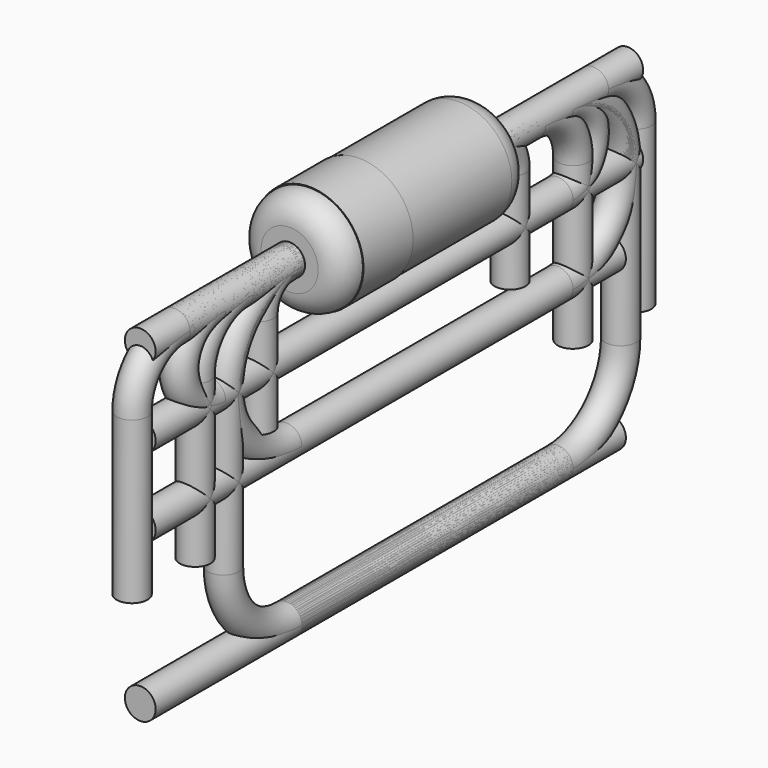
from build123d import *

# Parameters (mm, degrees)
SKETCH003_R             = 0.24825
SKETCH007_R             = 0.24825
SKETCH009_R             = 0.24825
SKETCH011_R             = 0.24825
BODY006_PLACEMENT_ANGLE = 180
SKETCH013_R             = 0.24825
BODY007_PLACEMENT_ANGLE = 180
SKETCH015_R             = 0.24825
SKETCH017_R             = 0.24825
SKETCH019_R             = 0.24825
BODY010_PLACEMENT_ANGLE = 180
SKETCH_R                = 0.86
PAD_DEPTH               = 1.9025
FILLET_R                = 0.4
SKETCH005_R             = 0.24825
SKETCH001_R             = 0.87
PAD001_DEPTH            = 0.5


with BuildPart() as body002:
    # AdditivePipe: sweep along a path in Sketch002
    with BuildLine(Plane.YZ) as additivepipe_path:
        Line((-3.81, -3.46), (-3.81, -0.86))
        ThreePointArc((-3.81, -0.86), (-3.558112, -0.251888), (-2.95, 0))
        Line((-2.95, 0), (2.95, 0))
        ThreePointArc((2.95, 0), (3.558112, -0.251888), (3.81, -0.86))
        Line((3.81, -0.86), (3.81, -3.46))
    # Sketch003 → AdditivePipe (sweep)
    with BuildSketch(Plane(origin=(0, 0, 0), x_dir=(0, 0, -1), z_dir=(0, -1, 0))):
        Circle(SKETCH003_R)
    sweep(path=additivepipe_path.line)


with BuildPart() as body004:
    # AdditivePipe002: sweep along a path in Sketch006
    with BuildLine(Plane.YZ) as additivepipe002_path:
        Line((4.5675, 0), (-1.9675, 0))
        ThreePointArc((-1.9675, 0), (-3.2375, -1.27), (-1.9675, -2.54))
        Line((-1.9675, -2.54), (4.5675, -2.54))
    # Sketch007 → AdditivePipe002 (sweep)
    with BuildSketch(Plane(origin=(0, 0, 0), x_dir=(0, 0, -1), z_dir=(0, -1, 0))):
        Circle(SKETCH007_R)
    sweep(path=additivepipe002_path.line)


with BuildPart() as body005:
    # AdditivePipe003: sweep along a path in Sketch008
    with BuildLine(Plane.YZ) as additivepipe003_path:
        Line((4.5675, 0), (-1.9675, 0))
        ThreePointArc((-1.9675, 0), (-2.865526, -0.371974), (-3.2375, -1.27))
        Line((-3.2375, -1.27), (-3.2375, -3.81))
        ThreePointArc((-3.2375, -3.81), (-2.865526, -4.708026), (-1.9675, -5.08))
        Line((-1.9675, -5.08), (4.5675, -5.08))
    # Sketch009 → AdditivePipe003 (sweep)
    with BuildSketch(Plane(origin=(0, 0, 0), x_dir=(0, 0, -1), z_dir=(0, -1, 0))):
        Circle(SKETCH009_R)
    sweep(path=additivepipe003_path.line)


with BuildPart() as body006:
    # AdditivePipe004: sweep along a path in Sketch010
    with BuildLine(Plane.YZ) as additivepipe004_path:
        Line((4.915, 0), (-3.5025, 0))
        ThreePointArc((-3.5025, 0), (-4.7725, -1.27), (-3.5025, -2.54))
        Line((-3.5025, -2.54), (4.915, -2.54))
    # Sketch011 → AdditivePipe004 (sweep)
    with BuildSketch(Plane(origin=(0, 0, 0), x_dir=(0, 0, -1), z_dir=(0, -1, 0))):
        Circle(SKETCH011_R)
    sweep(path=additivepipe004_path.line)


with BuildPart() as body006_1:
    # Body006 placement: moved
    add(body006.part.rotate(Axis((0, 0, 0), (0, 0, 1)), BODY006_PLACEMENT_ANGLE))


with BuildPart() as body007:
    # AdditivePipe005: sweep along a path in Sketch012
    with BuildLine(Plane.YZ) as additivepipe005_path:
        Line((4.915, 0), (-3.5025, 0))
        ThreePointArc((-3.5025, 0), (-4.400526, -0.371974), (-4.7725, -1.27))
        Line((-4.7725, -1.27), (-4.7725, -3.81))
        ThreePointArc((-4.7725, -3.81), (-4.400526, -4.708026), (-3.5025, -5.08))
        Line((-3.5025, -5.08), (4.915, -5.08))
    # Sketch013 → AdditivePipe005 (sweep)
    with BuildSketch(Plane(origin=(0, 0, 0), x_dir=(0, 0, -1), z_dir=(0, -1, 0))):
        Circle(SKETCH013_R)
    sweep(path=additivepipe005_path.line)


with BuildPart() as body007_1:
    # Body007 placement: moved
    add(body007.part.rotate(Axis((0, 0, 0), (0, 0, 1)), BODY007_PLACEMENT_ANGLE))


with BuildPart() as body008:
    # AdditivePipe006: sweep along a path in Sketch014
    with BuildLine(Plane.YZ) as additivepipe006_path:
        Line((-2.54, -2.1035), (-2.54, -0.4965))
        ThreePointArc((-2.54, -0.4965), (-2.394579, -0.145421), (-2.0435, 0))
        Line((-2.0435, 0), (2.0435, 0))
        ThreePointArc((2.0435, 0), (2.394579, -0.145421), (2.54, -0.4965))
        Line((2.54, -0.4965), (2.54, -2.1035))
    # Sketch015 → AdditivePipe006 (sweep)
    with BuildSketch(Plane(origin=(0, 0, 0), x_dir=(0, 0, -1), z_dir=(0, -1, 0))):
        Circle(SKETCH015_R)
    sweep(path=additivepipe006_path.line)


with BuildPart() as body009:
    # AdditivePipe007: sweep along a path in Sketch016
    with BuildLine(Plane.YZ) as additivepipe007_path:
        Line((4.915, 0), (-3.5025, 0))
        ThreePointArc((-3.5025, 0), (-4.1375, -0.635), (-3.5025, -1.27))
        Line((-3.5025, -1.27), (4.915, -1.27))
    # Sketch017 → AdditivePipe007 (sweep)
    with BuildSketch(Plane(origin=(0, 0, 0), x_dir=(0, 0, -1), z_dir=(0, -1, 0))):
        Circle(SKETCH017_R)
    sweep(path=additivepipe007_path.line)


with BuildPart() as body010:
    # AdditivePipe008: sweep along a path in Sketch018
    with BuildLine(Plane.YZ) as additivepipe008_path:
        Line((4.915, 0), (-3.5025, 0))
        ThreePointArc((-3.5025, 0), (-4.1375, -0.635), (-3.5025, -1.27))
        Line((-3.5025, -1.27), (4.915, -1.27))
    # Sketch019 → AdditivePipe008 (sweep)
    with BuildSketch(Plane(origin=(0, 0, 0), x_dir=(0, 0, -1), z_dir=(0, -1, 0))):
        Circle(SKETCH019_R)
    sweep(path=additivepipe008_path.line)


with BuildPart() as body010_1:
    # Body010 placement: moved
    add(body010.part.rotate(Axis((0, 0, 0), (0, 0, 1)), BODY010_PLACEMENT_ANGLE))


with BuildPart() as body:
    # Sketch → Pad (new body, symmetric)
    with BuildSketch(Plane(origin=(0, 0, 0), x_dir=(0, 0, -1), z_dir=(0, -1, 0))):
        Circle(SKETCH_R)
    extrude(amount=PAD_DEPTH, both=True)

    # Fillet
    fillet_edges = [body.edges().sort_by_distance(p)[0] for p in [
        (0, 1.9025, 0.86),
        (0, -1.9025, 0.86),
    ]]
    fillet(fillet_edges, radius=FILLET_R)


with BuildPart() as body003:
    # AdditivePipe001: sweep along a path in Sketch004
    with BuildLine(Plane.YZ) as additivepipe001_path:
        Line((-5.08, -3.46), (-5.08, -0.86))
        ThreePointArc((-5.08, -0.86), (-4.828112, -0.251888), (-4.22, 0))
        Line((-4.22, 0), (4.22, 0))
        ThreePointArc((4.22, 0), (4.828112, -0.251888), (5.08, -0.86))
        Line((5.08, -0.86), (5.08, -3.46))
    # Sketch005 → AdditivePipe001 (sweep)
    with BuildSketch(Plane(origin=(0, 0, 0), x_dir=(0, 0, -1), z_dir=(0, -1, 0))):
        Circle(SKETCH005_R)
    sweep(path=additivepipe001_path.line)


with BuildPart() as fusion:
    # Sketch001 → Pad001 (new body, symmetric)
    with BuildSketch(Plane(origin=(0, -1, 0), x_dir=(0, 0, -1), z_dir=(0, -1, 0))):
        Circle(SKETCH001_R)
    extrude(amount=PAD001_DEPTH, both=True)

    # Fusion: union Body, Body003
    add(body.part)
    add(body003.part)


solid = Compound([body002.part, body004.part, body005.part, body006_1.part, body007_1.part, body008.part, body009.part, body010_1.part, fusion.part])
